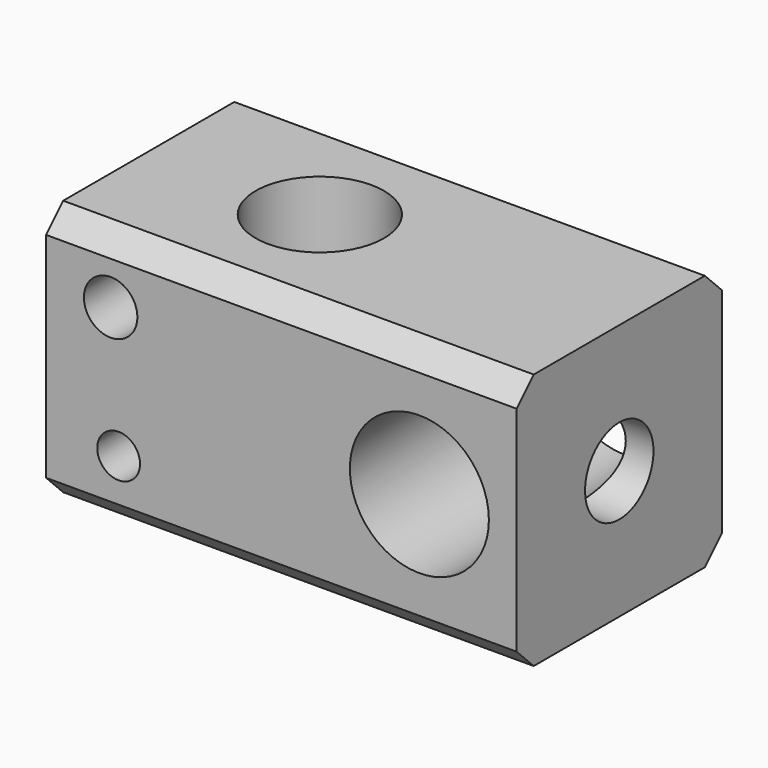
from build123d import *

# Parameters (mm, degrees)
F0_W     = 22
F0_H     = 12
F1_DEPTH = 12
F2_SIZE  = 1
F3_R     = 3.25
F3_R_2   = 1.25
F3_R_3   = 1
F4_DEPTH = 12.001
F7_R     = 2
F5_DEPTH = 4
F6_R     = 3
F8_DEPTH = 25


with BuildPart() as f1:
    # F0 (on Top) → F1 (new body)
    with BuildSketch(Plane.XY):
        Rectangle(F0_W, F0_H)
    extrude(amount=F1_DEPTH)

    # F2
    f2_edges = [f1.edges().sort_by_distance(p)[0] for p in [
        (0, -6, 12),
        (0, -6, 0),
        (0, 6, 0),
        (0, 6, 12),
    ]]
    chamfer(f2_edges, length=F2_SIZE)

    # F3 (on face) → F4 (cut, through all)
    with BuildSketch(Plane.XZ.offset(6)):
        with Locations((6.454196, 6)):
            Circle(F3_R)
        with Locations((-7.981588, 9)):
            Circle(F3_R_2)
        with Locations((-7.608019, 3)):
            Circle(F3_R_3)
    extrude(amount=-F4_DEPTH, mode=Mode.SUBTRACT)

    # F7 (on face) → F5 (cut)
    with BuildSketch(Plane.YZ.offset(11)):
        with Locations((0, 6)):
            Circle(F7_R)
    extrude(amount=-F5_DEPTH, mode=Mode.SUBTRACT)

    # F6 (on face) → F8 (cut)
    with BuildSketch(Plane.XY.offset(12)):
        with Locations((-3, 0)):
            Circle(F6_R)
    extrude(amount=-F8_DEPTH, mode=Mode.SUBTRACT)


solid = f1.part
